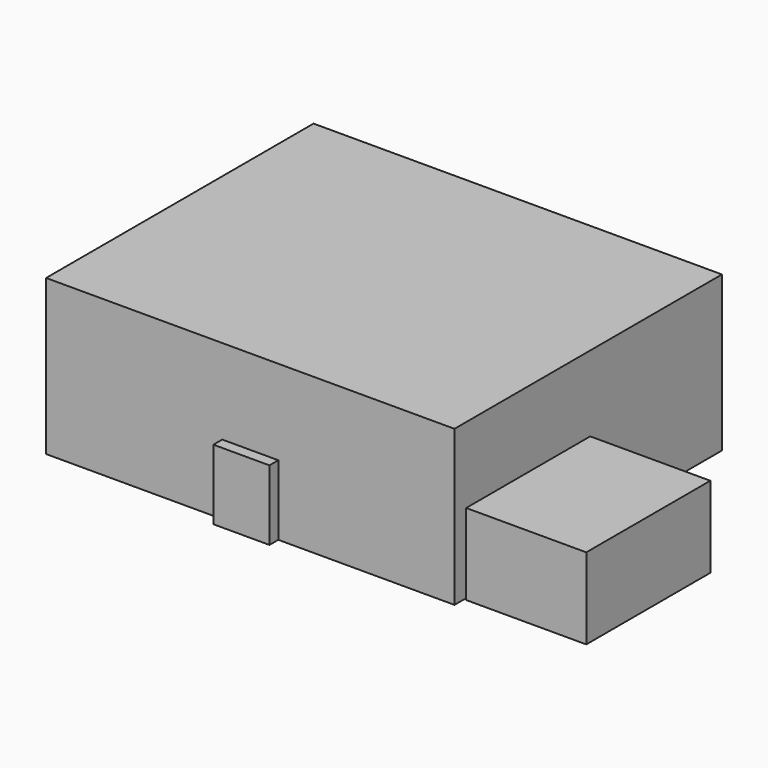
from build123d import *

# Parameters (mm, degrees)
F0_W     = 46.83512
F0_H     = 38.340516
F1_DEPTH = 17.78
F2_W     = 6.42835
F2_H     = 8.035437
F3_DEPTH = 1.27
F5_W     = 13.775034
F5_H     = 9.298149
F6_DEPTH = 17.78


with BuildPart() as f1:
    # F0 (on Top) → F1 (new body)
    with BuildSketch(Plane.XY):
        Rectangle(F0_W, F0_H)
    extrude(amount=F1_DEPTH)

    # F2 (on face) → F3 (join)
    with BuildSketch(Plane.XZ.offset(19.170258)):
        with Locations((0, 4.017718)):
            Rectangle(F2_W, F2_H)
    extrude(amount=F3_DEPTH)


with BuildPart() as f6:
    # F5 (on Front) → F6 (new body)
    with BuildSketch(Plane.XZ):
        with Locations((30.534663, 4.649075)):
            Rectangle(F5_W, F5_H)
    extrude(amount=F6_DEPTH)


solid = Compound([f1.part, f6.part])
